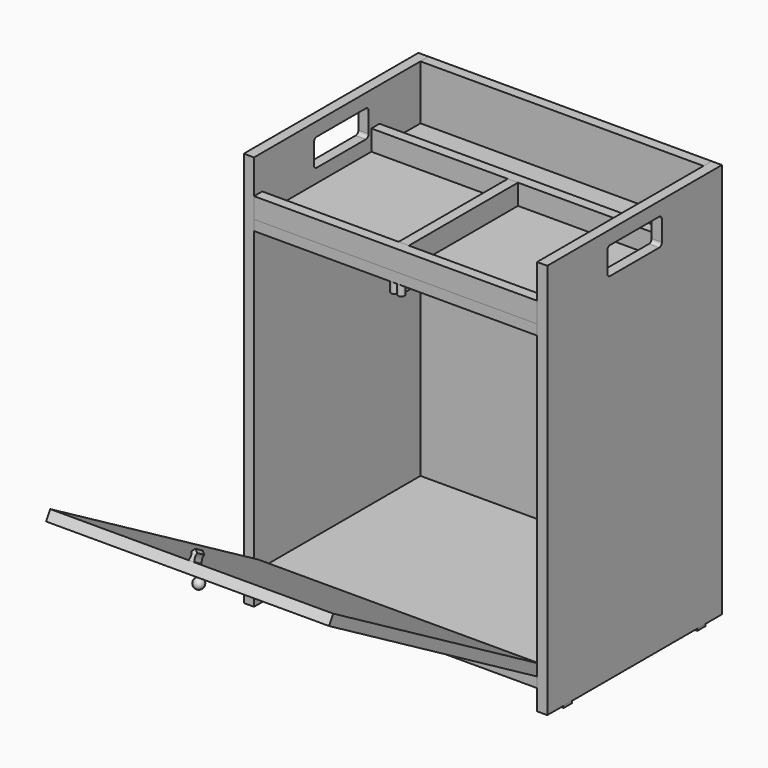
from build123d import *

# Parameters (mm, degrees)
BOX_W             = 415
BOX_H             = 15
BOX_DEPTH         = 30
BOX003_W          = 415
BOX003_H          = 315
BOX003_DEPTH      = 15
BOX004_W          = 415
BOX004_H          = 15
BOX004_DEPTH      = 535
BOX005_W          = 15
BOX005_H          = 200
BOX005_DEPTH      = 30
BOX006_W          = 415
BOX006_H          = 320
BOX006_DEPTH      = 15
BOX007_W          = 15
BOX007_H          = 15
BOX007_DEPTH      = 3
BOX008_W          = 15
BOX008_H          = 15
BOX008_DEPTH      = 3
BOX009_W          = 15
BOX009_H          = 15
BOX009_DEPTH      = 3
BOX010_W          = 15
BOX010_H          = 15
BOX010_DEPTH      = 3
BOX011_W          = 415
BOX011_H          = 15
BOX011_DEPTH      = 440
BOX011_ROLL_ANGLE = 60
CYLINDER001_R     = 5
CYLINDER001_DEPTH = 15
BOX012_W          = 10
BOX012_H          = 10
BOX012_DEPTH      = 15
CYLINDER_R        = 5
CYLINDER_DEPTH    = 15
CYLINDER003_R     = 12
CYLINDER003_DEPTH = 15
CYLINDER002_R     = 12
CYLINDER002_DEPTH = 15
BOX013_W          = 8
BOX013_H          = 15
BOX013_DEPTH      = 15
CHAMFER_SIZE      = 3.9
CUT001_ROLL_ANGLE = 60
BOX015_W          = 415
BOX015_H          = 15
BOX015_DEPTH      = 30
BOX016_W          = 15
BOX016_H          = 100
BOX016_DEPTH      = 40
FILLET001_R       = 5
BOX002_W          = 15
BOX002_H          = 320
BOX002_DEPTH      = 580
BOX014_W          = 15
BOX014_H          = 100
BOX014_DEPTH      = 40
FILLET_R          = 5
BOX001_W          = 15
BOX001_H          = 320
BOX001_DEPTH      = 580


with BuildPart() as obj1:
    # Box → Box (new body)
    with BuildSketch(Plane.XY.offset(150)):
        with Locations((207.5, 7.5)):
            Rectangle(BOX_W, BOX_H)
    extrude(amount=BOX_DEPTH)


with BuildPart() as tamposuperiorhorizontal:
    # Box003 → Box003 (new body)
    with BuildSketch(Plane.XY.offset(135)):
        with Locations((207.5, 157.5)):
            Rectangle(BOX003_W, BOX003_H)
    extrude(amount=BOX003_DEPTH)


with BuildPart() as obj2:
    # Box004 → Box004 (new body)
    with BuildSketch(Plane(origin=(0, 305, -305), x_dir=(1, 0, 0), z_dir=(0, 0, 1))):
        with Locations((207.5, 7.5)):
            Rectangle(BOX004_W, BOX004_H)
    extrude(amount=BOX004_DEPTH)


with BuildPart() as obj3:
    # Box005 → Box005 (new body)
    with BuildSketch(Plane(origin=(200, 15, 150), x_dir=(1, 0, 0), z_dir=(0, 0, 1))):
        with Locations((7.5, 100)):
            Rectangle(BOX005_W, BOX005_H)
    extrude(amount=BOX005_DEPTH)


with BuildPart() as tampoinferiorhorizontal:
    # Box006 → Box006 (new body)
    with BuildSketch(Plane.XY.offset(-320)):
        with Locations((207.5, 160)):
            Rectangle(BOX006_W, BOX006_H)
    extrude(amount=BOX006_DEPTH)


with BuildPart() as cube:
    # Box007 → Box007 (new body)
    with BuildSketch(Plane(origin=(-15, 30, -353), x_dir=(1, 0, 0), z_dir=(0, 0, 1))):
        with Locations((7.5, 7.5)):
            Rectangle(BOX007_W, BOX007_H)
    extrude(amount=BOX007_DEPTH)


with BuildPart() as cube001:
    # Box008 → Box008 (new body)
    with BuildSketch(Plane(origin=(-15, 275, -353), x_dir=(1, 0, 0), z_dir=(0, 0, 1))):
        with Locations((7.5, 7.5)):
            Rectangle(BOX008_W, BOX008_H)
    extrude(amount=BOX008_DEPTH)


with BuildPart() as cube002:
    # Box009 → Box009 (new body)
    with BuildSketch(Plane(origin=(415, 30, -353), x_dir=(1, 0, 0), z_dir=(0, 0, 1))):
        with Locations((7.5, 7.5)):
            Rectangle(BOX009_W, BOX009_H)
    extrude(amount=BOX009_DEPTH)


with BuildPart() as cube003:
    # Box010 → Box010 (new body)
    with BuildSketch(Plane(origin=(415, 275, -353), x_dir=(1, 0, 0), z_dir=(0, 0, 1))):
        with Locations((7.5, 7.5)):
            Rectangle(BOX010_W, BOX010_H)
    extrude(amount=BOX010_DEPTH)


with BuildPart() as tampabasculante:
    # Box011 → Box011 (new body)
    with BuildSketch(Plane.XY):
        with Locations((207.5, 7.5)):
            Rectangle(BOX011_W, BOX011_H)
    extrude(amount=BOX011_DEPTH)


with BuildPart() as tampabasculante_1:
    # Box011 roll: moved
    add(tampabasculante.part.rotate(Axis((0, 0, 0), (1, 0, 0)), BOX011_ROLL_ANGLE))


with BuildPart() as tampabasculante_2:
    # Box011 placement: moved
    add(tampabasculante_1.part.moved(Location((0, 0, -305))))


with BuildPart() as puxador:
    # Sphere → Sphere (revolve)
    with BuildSketch(Plane(origin=(207, -360, -106), x_dir=(1, 0, 0), z_dir=(0, -1, 0))):
        with BuildLine():
            ThreePointArc((0, -7.5), (7.5, 0), (0, 7.5))
            Line((0, 7.5), (0, -7.5))
        make_face()
    revolve(axis=Axis((207, -360, -106), (0, 0, 1)))


with BuildPart() as cylinder001:
    # Cylinder001 → Cylinder001 (new body)
    with BuildSketch(Plane(origin=(-90, 0, 0), x_dir=(1, 0, 0), z_dir=(0, 0, 1))):
        Circle(CYLINDER001_R)
    extrude(amount=CYLINDER001_DEPTH)


with BuildPart() as cube004:
    # Box012 → Box012 (new body)
    with BuildSketch(Plane(origin=(-100, 5, 0), x_dir=(1, 0, 0), z_dir=(0, 0, 1))):
        with Locations((5, 5)):
            Rectangle(BOX012_W, BOX012_H)
    extrude(amount=BOX012_DEPTH)


with BuildPart() as fusion:
    # Cylinder → Cylinder (new body)
    with BuildSketch(Plane(origin=(-100, 0, 0), x_dir=(1, 0, 0), z_dir=(0, 0, 1))):
        Circle(CYLINDER_R)
    extrude(amount=CYLINDER_DEPTH)

    # Fusion: union Cylinder001, Cube004
    add(cylinder001.part)
    add(cube004.part)


with BuildPart() as fusion_1:
    # Fusion placement: moved
    add(fusion.part.moved(Location((302, 5, 120))))


with BuildPart() as cylinder003:
    # Cylinder003 → Cylinder003 (new body)
    with BuildSketch(Plane(origin=(182, -124, -70), x_dir=(1, 0, 0), z_dir=(0, 0, 1))):
        Circle(CYLINDER003_R)
    extrude(amount=CYLINDER003_DEPTH)


with BuildPart() as cylinder002:
    # Cylinder002 → Cylinder002 (new body)
    with BuildSketch(Plane(origin=(212, -124, -70), x_dir=(1, 0, 0), z_dir=(0, 0, 1))):
        Circle(CYLINDER002_R)
    extrude(amount=CYLINDER002_DEPTH)


with BuildPart() as cut001:
    # Box013 → Box013 (new body)
    with BuildSketch(Plane(origin=(193, -130, -70), x_dir=(1, 0, 0), z_dir=(0, 0, 1))):
        with Locations((4, 7.5)):
            Rectangle(BOX013_W, BOX013_H)
    extrude(amount=BOX013_DEPTH)

    # Chamfer
    chamfer_edges = [cut001.edges().sort_by_distance(p)[0] for p in [
        (193, -115, -62.5),
        (201, -115, -62.5),
    ]]
    chamfer(chamfer_edges, length=CHAMFER_SIZE)

    # Cut: cut Cylinder002
    add(cylinder002.part, mode=Mode.SUBTRACT)

    # Cut001: cut Cylinder003
    add(cylinder003.part, mode=Mode.SUBTRACT)


with BuildPart() as cut001_1:
    # Cut001 roll: moved
    add(cut001.part.rotate(Axis((0, 0, 0), (1, 0, 0)), CUT001_ROLL_ANGLE))


with BuildPart() as cut001_2:
    # Cut001 placement: moved
    add(cut001_1.part.moved(Location((10, -356, 68))))


with BuildPart() as obj4:
    # Box015 → Box015 (new body)
    with BuildSketch(Plane(origin=(0, 215, 150), x_dir=(1, 0, 0), z_dir=(0, 0, 1))):
        with Locations((207.5, 7.5)):
            Rectangle(BOX015_W, BOX015_H)
    extrude(amount=BOX015_DEPTH)


with BuildPart() as fillet001:
    # Box016 → Box016 (new body)
    with BuildSketch(Plane(origin=(-67, 110, 170), x_dir=(1, 0, 0), z_dir=(0, 0, 1))):
        with Locations((7.5, 50)):
            Rectangle(BOX016_W, BOX016_H)
    extrude(amount=BOX016_DEPTH)

    # Fillet001
    fillet001_edges = [fillet001.edges().sort_by_distance(p)[0] for p in [
        (-59.5, 110, 170),
        (-59.5, 110, 210),
        (-59.5, 210, 170),
        (-59.5, 210, 210),
    ]]
    fillet(fillet001_edges, radius=FILLET001_R)


with BuildPart() as fillet001_1:
    # Fillet001 placement: moved
    add(fillet001.part.moved(Location((482, 0, 0))))


with BuildPart() as cut002:
    # Box002 → Box002 (new body)
    with BuildSketch(Plane(origin=(415, 0, -350), x_dir=(1, 0, 0), z_dir=(0, 0, 1))):
        with Locations((7.5, 160)):
            Rectangle(BOX002_W, BOX002_H)
    extrude(amount=BOX002_DEPTH)

    # Cut002: cut Fillet001
    add(fillet001_1.part, mode=Mode.SUBTRACT)


with BuildPart() as fillet_body:
    # Box014 → Box014 (new body)
    with BuildSketch(Plane(origin=(-67, 110, 170), x_dir=(1, 0, 0), z_dir=(0, 0, 1))):
        with Locations((7.5, 50)):
            Rectangle(BOX014_W, BOX014_H)
    extrude(amount=BOX014_DEPTH)

    # Fillet
    fillet_edges = [fillet_body.edges().sort_by_distance(p)[0] for p in [
        (-59.5, 110, 170),
        (-59.5, 110, 210),
        (-59.5, 210, 170),
        (-59.5, 210, 210),
    ]]
    fillet(fillet_edges, radius=FILLET_R)


with BuildPart() as fillet_body_1:
    # Fillet placement: moved
    add(fillet_body.part.moved(Location((52, 0, 0))))


with BuildPart() as cut003:
    # Box001 → Box001 (new body)
    with BuildSketch(Plane(origin=(-15, 0, -350), x_dir=(1, 0, 0), z_dir=(0, 0, 1))):
        with Locations((7.5, 160)):
            Rectangle(BOX001_W, BOX001_H)
    extrude(amount=BOX001_DEPTH)

    # Cut003: cut Fillet body
    add(fillet_body_1.part, mode=Mode.SUBTRACT)


solid = Compound([obj1.part, tamposuperiorhorizontal.part, obj2.part, obj3.part, tampoinferiorhorizontal.part, cube.part, cube001.part, cube002.part, cube003.part, tampabasculante_2.part, puxador.part, fusion_1.part, cut001_2.part, obj4.part, cut002.part, cut003.part])
